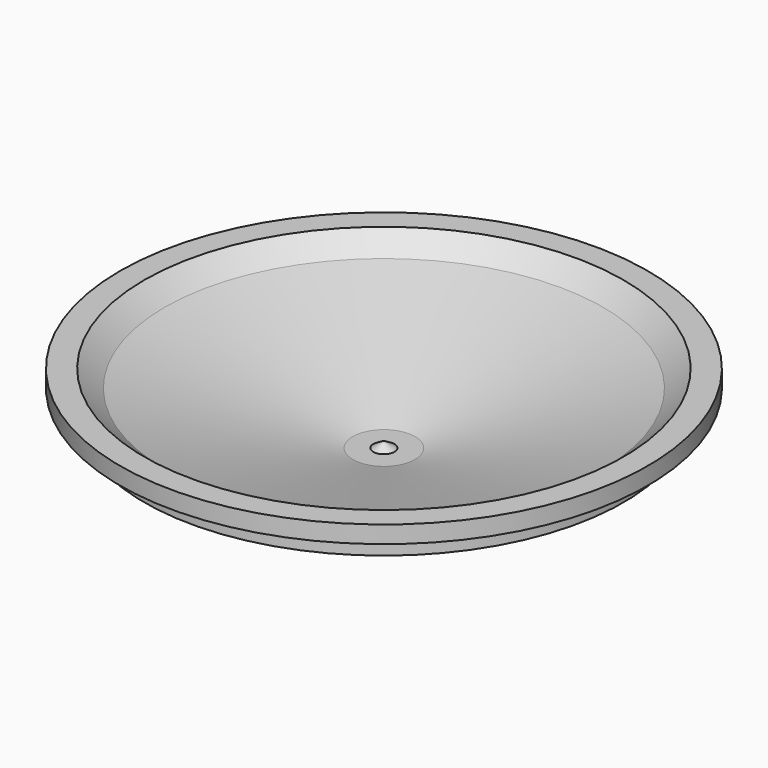
from build123d import *


with BuildPart() as f1:
    # F0 (on Front) → F1 (revolve)
    with BuildSketch(Plane.XZ):
        Polygon((-10.859103, 0), (0, 0), (0, 23.60045), (-3.909277, 21.283839), (-11.438254, 21.283839), (-80.646925, 40.685434), (-88.1759, 47.056105), (-97.152755, 47.056105), (-97.152755, 44.7395), (-97.152755, 40.685434), (-88.1759, 38.079251), (-88.1759, 32.287728), (-34.314759, 22.442143), (-25.917055, 12.886135), (-10.859103, 8.83207), align=None)
    revolve(axis=Axis((0, 0, 18.532872), (0, 0, 1)))


solid = f1.part
